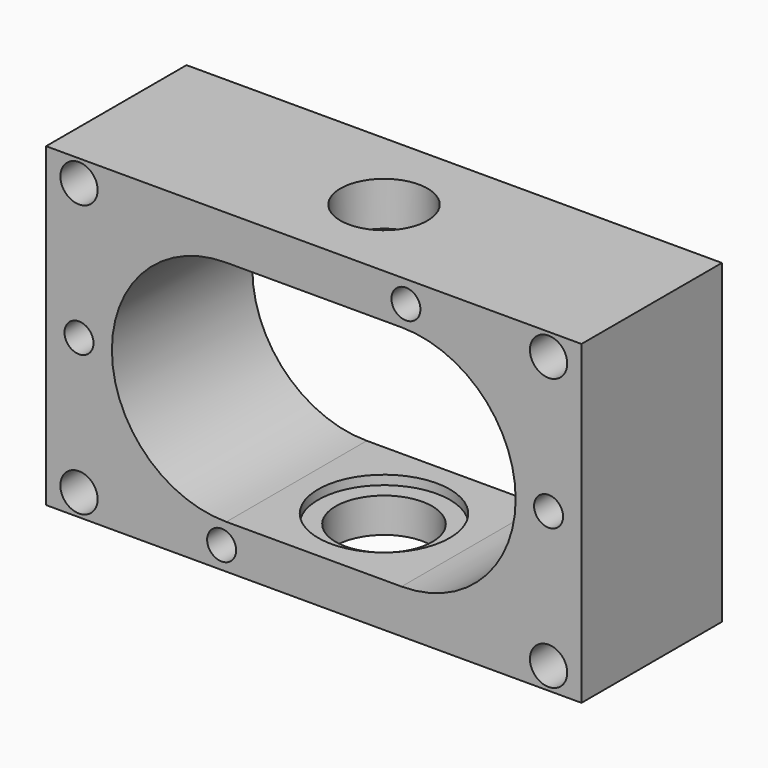
from build123d import *

# Parameters (mm, degrees)
F0_W     = 122
F0_H     = 72
F1_DEPTH = 40
F2_D     = 6.6
F2_DEPTH = 15
F2_TIP   = 1.9828400428
F3_D     = 8.5
F5_D     = 19.84248
F5_DEPTH = 15
F5_TIP   = 5.9612824079
F6_R     = 11
F7_DEPTH = 25
F8_R     = 15
F9_DEPTH = 2.1


with BuildPart() as f1:
    # F0 (on Front) → F1 (new body)
    with BuildSketch(Plane.XZ):
        Rectangle(F0_W, F0_H)
        with BuildLine():
            ThreePointArc((-19.9292801285, -25.999903821), (-45.9999759552, -0.0353599684), (-20, 26))
            Line((-20, 26), (20, 26))
            ThreePointArc((20, 26), (46, 0), (20, -26))
            Line((20, -26), (-19.9292801285, -25.999903821))
        make_face(mode=Mode.SUBTRACT)
    extrude(amount=-F1_DEPTH)

    # F2
    with Locations(Plane.XZ):
        with Locations((21, 31), (53.5, 0), (-21, -31), (-53.5, 0)):
            Hole(F2_D / 2, depth=F2_DEPTH)
            with Locations((0, 0, -(F2_DEPTH + F2_TIP / 2))):  # 118° drill point
                Cone(0, F2_D / 2, F2_TIP, mode=Mode.SUBTRACT)

    # F3 (through all)
    with Locations(Plane.XZ):
        with Locations((-53.5, 31), (-53.5, -31), (53.5, 31), (53.5, -31)):
            Hole(F3_D / 2)

    # F5
    with Locations(Plane.XY.offset(36)):
        with Locations((0, 20)):
            Hole(F5_D / 2, depth=F5_DEPTH)
            with Locations((0, 0, -(F5_DEPTH + F5_TIP / 2))):  # 118° drill point
                Cone(0, F5_D / 2, F5_TIP, mode=Mode.SUBTRACT)

    # F6 (on face) → F7 (cut)
    with BuildSketch(Plane(origin=(0, 0, -36), x_dir=(1, 0, 0), z_dir=(0, 0, -1))):
        with Locations((0, -20)):
            Circle(F6_R)
    extrude(amount=-F7_DEPTH, mode=Mode.SUBTRACT)

    # F8 (on face) → F9 (cut)
    with BuildSketch(Plane(origin=(-6.2627e-05, 0, -25.9999518252), x_dir=(1, 0, -2.4087e-06), z_dir=(2.4087e-06, 0, 1))):
        with Locations((6.2627e-05, 20)):
            Circle(F8_R)
    extrude(amount=-F9_DEPTH, mode=Mode.SUBTRACT)


solid = f1.part
